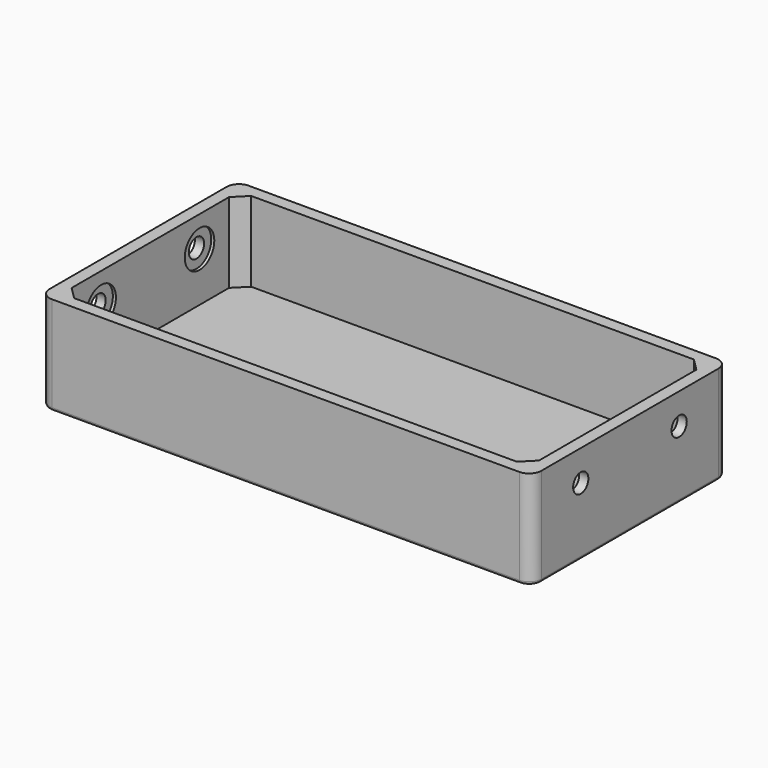
from build123d import *

# Parameters (mm, degrees)
SKETCH_W        = 160
SKETCH_H        = 80
PAD_DEPTH       = 32
POCKET_DEPTH    = 26
SKETCH002_R     = 6
POCKET001_DEPTH = 1
SKETCH003_R     = 6
POCKET002_DEPTH = 1
SKETCH004_R     = 3.1
POCKET003_DEPTH = 4
SKETCH005_R     = 3.1
POCKET004_DEPTH = 4
FILLET_R        = 4
FILLET001_R     = 1


with BuildPart() as part:
    # Sketch → Pad (new body)
    with BuildSketch(Plane.XY):
        with Locations((80, 40)):
            Rectangle(SKETCH_W, SKETCH_H)
    extrude(amount=PAD_DEPTH)

    # Sketch001 (on Face6 of Pad) → Pocket (cut)
    with BuildSketch(Plane.XY.offset(32)):
        Polygon((8, 76), (4, 72), (4, 8), (8, 4), (152, 4), (156, 8), (156, 72), (152, 76), align=None)
    extrude(amount=-POCKET_DEPTH, mode=Mode.SUBTRACT)

    # Sketch002 (on Face7 of Pocket) → Pocket001 (cut)
    with BuildSketch(Plane.YZ.offset(4)):
        with Locations((20, 22)):
            Circle(SKETCH002_R)
        with Locations((60, 22)):
            Circle(SKETCH002_R)
    extrude(amount=-POCKET001_DEPTH, mode=Mode.SUBTRACT)

    # Sketch003 (on Face11 of Pocket001) → Pocket002 (cut)
    with BuildSketch(Plane(origin=(156, 0, 0), x_dir=(0, -1, 0), z_dir=(-1, 0, 0))):
        with Locations((-20, 22)):
            Circle(SKETCH003_R)
        with Locations((-60, 22)):
            Circle(SKETCH003_R)
    extrude(amount=-POCKET002_DEPTH, mode=Mode.SUBTRACT)

    # Sketch004 (on Face3 of Pocket002) → Pocket003 (cut)
    with BuildSketch(Plane.YZ.offset(160)):
        with Locations((20, 22)):
            Circle(SKETCH004_R)
        with Locations((60, 22)):
            Circle(SKETCH004_R)
    extrude(amount=-POCKET003_DEPTH, mode=Mode.SUBTRACT)

    # Sketch005 (on Face2 of Pocket003) → Pocket004 (cut)
    with BuildSketch(Plane(origin=(0, 0, 0), x_dir=(0, -1, 0), z_dir=(-1, 0, 0))):
        with Locations((-60, 22)):
            Circle(SKETCH005_R)
        with Locations((-20, 22)):
            Circle(SKETCH005_R)
    extrude(amount=-POCKET004_DEPTH, mode=Mode.SUBTRACT)

    # Fillet
    fillet_edges = [part.edges().sort_by_distance(p)[0] for p in [
        (160, 80, 16),
        (0, 80, 16),
        (0, 0, 16),
        (160, 0, 16),
    ]]
    fillet(fillet_edges, radius=FILLET_R)

    # Fillet001
    fillet001_edges = [part.edges().sort_by_distance(p)[0] for p in [
        (1.171573, 78.828427, 0),
        (0, 40, 0),
        (80, 80, 0),
        (1.171573, 1.171573, 0),
        (80, 0, 0),
        (158.828427, 1.171573, 0),
        (160, 40, 0),
        (158.828427, 78.828427, 0),
    ]]
    fillet(fillet001_edges, radius=FILLET001_R)


solid = part.part
